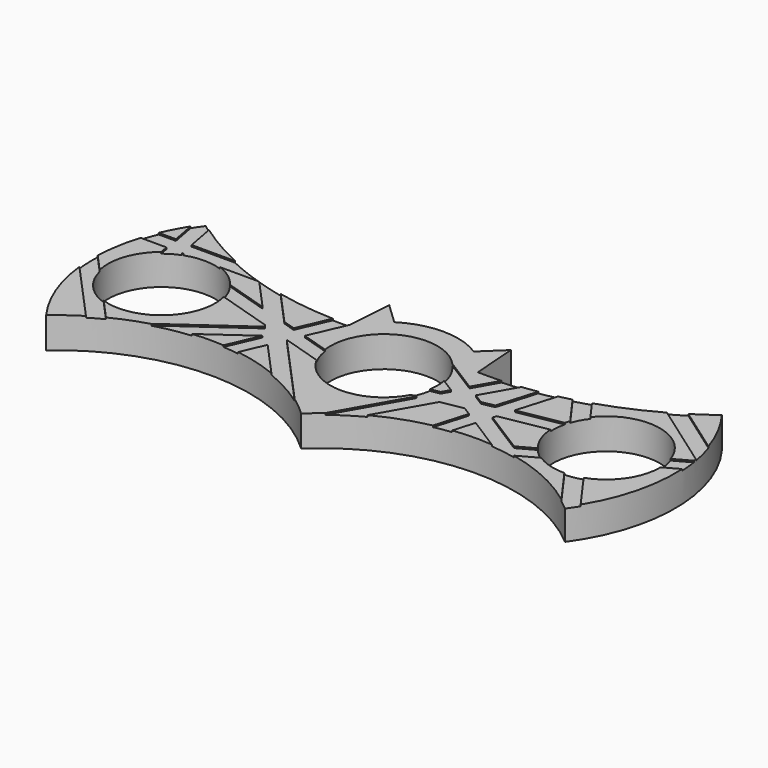
from build123d import *

# Parameters (mm, degrees)
F1_R     = 11
F2_DEPTH = 6.35
F6_DEPTH = 0.3175


with BuildPart() as f2:
    # F1 (on Top) → F2 (new body)
    with BuildSketch(Plane.XY):
        with BuildLine():
            Line((0, -21.2744697928), (-3.9617014267, -14.7160633936))
            ThreePointArc((-3.9617014267, -14.7160633936), (-14.0916920779, -5.8036035686), (-13.1763023875, 7.6578492669))
            ThreePointArc((-13.1763023875, 7.6578492669), (-34.2159424621, 10.6798365178), (-53.0567593104, 20.5196780766))
            ThreePointArc((-53.0567593104, 20.5196780766), (-59.8561977211, 0.2263484753), (-53.3247157398, -20.1548029185))
            ThreePointArc((-53.3247157398, -20.1548029185), (-26.446732511, -10.4453667792), (0, -21.2744697928))
        make_face()
        with Locations((-45.72, 0)):
            Circle(F1_R, mode=Mode.SUBTRACT)
        with BuildLine():
            ThreePointArc((-13.1763023875, 7.6578492669), (-10.9837744966, 10.5647668127), (-8.1642887679, 12.8686436315))
            Line((-8.1642887679, 12.8686436315), (-12.5048465535, 16.9855731691))
            Line((-12.5048465535, 16.9855731691), (-13.1763023875, 7.6578492669))
        make_face()
        with BuildLine():
            ThreePointArc((8.1642887679, 12.8686436315), (10.9837744966, 10.5647668127), (13.1763023875, 7.6578492669))
            Line((13.1763023875, 7.6578492669), (12.5048465535, 16.9855731691))
            Line((12.5048465535, 16.9855731691), (8.1642887679, 12.8686436315))
        make_face()
        with BuildLine():
            Line((0, -21.2744697928), (3.9617014267, -14.7160633936))
            ThreePointArc((3.9617014267, -14.7160633936), (0, -15.24), (-3.9617014267, -14.7160633936))
            Line((-3.9617014267, -14.7160633936), (0, -21.2744697928))
        make_face()
        with BuildLine():
            ThreePointArc((3.9617014267, -14.7160633936), (12.0961549623, -9.2704172036), (15.24, 0))
            ThreePointArc((15.24, 0), (14.7150339515, 3.9655233964), (13.1763023875, 7.6578492669))
            ThreePointArc((13.1763023875, 7.6578492669), (10.9837744966, 10.5647668127), (8.1642887679, 12.8686436315))
            ThreePointArc((8.1642887679, 12.8686436315), (0, 15.24), (-8.1642887679, 12.8686436315))
            ThreePointArc((-8.1642887679, 12.8686436315), (-10.9837744966, 10.5647668127), (-13.1763023875, 7.6578492669))
            ThreePointArc((-13.1763023875, 7.6578492669), (-14.0916920779, -5.8036035686), (-3.9617014267, -14.7160633936))
            ThreePointArc((-3.9617014267, -14.7160633936), (0, -15.24), (3.9617014267, -14.7160633936))
        make_face()
        Circle(F1_R, mode=Mode.SUBTRACT)
        with BuildLine():
            ThreePointArc((13.1763023875, 7.6578492669), (14.7150339515, 3.9655233964), (15.24, 0))
            ThreePointArc((15.24, 0), (12.0961549623, -9.2704172036), (3.9617014267, -14.7160633936))
            Line((3.9617014267, -14.7160633936), (0, -21.2744697928))
            ThreePointArc((0, -21.2744697928), (26.446732511, -10.4453667792), (53.3247157398, -20.1548029185))
            ThreePointArc((53.3247157398, -20.1548029185), (59.8561977211, 0.2263484753), (53.0567593104, 20.5196780766))
            ThreePointArc((53.0567593104, 20.5196780766), (34.2159424621, 10.6798365178), (13.1763023875, 7.6578492669))
        make_face()
        with Locations((45.72, 0)):
            Circle(F1_R, mode=Mode.SUBTRACT)
    extrude(amount=F2_DEPTH)

    # F4: F2 across plane


with BuildPart() as f2_1:
    add(f2.part)
    add(f2.part.mirror(Plane.XY.offset(3.175)), mode=Mode.INTERSECT)

    # F5 (on face) → F6 (cut)
    with BuildSketch(Plane.XY.offset(6.35)):
        with BuildLine():
            Line((-33.0867251205, 10.3273102228), (-33.8965651377, 10.3273102228))
            Line((-33.8965651377, 10.3273102228), (-27.9672857299, 3.7826160877))
            Line((-27.9672857299, 3.7826160877), (-36.8817018288, 6.5486246982))
            ThreePointArc((-36.8817018288, 6.5486246982), (-35.7709952356, 4.6922600309), (-35.0450733013, 2.6544189528))
            Line((-35.0450733013, 2.6544189528), (-23.777877053, -0.8416217854))
            Line((-23.777877053, -0.8416217854), (-23.3603945078, -1.3024358872))
            Line((-23.3603945078, -1.3024358872), (-38.4050425364, -12.0245541076))
            ThreePointArc((-38.4050425364, -12.0245541076), (-34.7082419636, -11.1365012415), (-30.9435157655, -10.6056443669))
            Line((-30.9435157655, -10.6056443669), (-21.7343333799, -4.0423839925))
            Line((-21.7343333799, -4.0423839925), (-24.5594222217, -10.5298927816))
            ThreePointArc((-24.5594222217, -10.5298927816), (-22.9037940861, -10.6783462725), (-21.2558190336, -10.8958806112))
            Line((-21.2558190336, -10.8958806112), (-19.1175726849, -5.9856307902))
            Line((-19.1175726849, -5.9856307902), (-12.5048465535, -13.2847082923))
            ThreePointArc((-12.5048465535, -13.2847082923), (-8.0758913439, -15.3833181537), (-3.9388128262, -18.0109385482))
            Line((-3.9388128262, -18.0109385482), (-17.7267967393, -2.7918653278))
            Line((-17.7267967393, -2.7918653278), (-17.8183960606, -2.690758684))
            Line((-17.8183960606, -2.690758684), (-17.6989126602, -2.7278325777))
            Line((-17.6989126602, -2.7278325777), (-9.6856513623, -5.2142264707))
            ThreePointArc((-9.6856513623, -5.2142264707), (-10.4553816006, -3.4183322814), (-10.89522981, -1.5145848898))
            Line((-10.89522981, -1.5145848898), (-16.4235996876, 0.2007847445))
            Line((-16.4235996876, 0.2007847445), (-13.1763023875, 7.6578492669))
            ThreePointArc((-13.1763023875, 7.6578492669), (-14.9072183672, 7.6354518608), (-16.6380970373, 7.6605676364))
            Line((-16.6380970373, 7.6605676364), (-19.4743635012, 1.147390656))
            Line((-19.4743635012, 1.147390656), (-22.0078047375, 1.933479189))
            Line((-22.0078047375, 1.933479189), (-28.5329704562, 9.1359081644))
            ThreePointArc((-28.5329704562, 9.1359081644), (-30.8209665406, 9.6891113065), (-33.0867251205, 10.3273102228))
        make_face()
        Polygon((-21.2140333894, -3.6715731901), (-21.7343333799, -4.0423839925), (-21.4563736727, -3.4040798031), align=None, mode=Mode.SUBTRACT)
        with BuildLine():
            Line((15.2562559493, 2.8950779034), (8.1607648929, 7.3757654764))
            ThreePointArc((8.1607648929, 7.3757654764), (9.876376857, 4.8432613164), (10.828250906, 1.9362288904))
            Line((10.828250906, 1.9362288904), (13.6808634902, 0.1348502888))
            Line((13.6808634902, 0.1348502888), (12.7943901494, -1.4183297972))
            Line((12.7943901494, -1.4183297972), (10.8561561819, -1.7730969953))
            ThreePointArc((10.8561561819, -1.7730969953), (10.413844837, -3.5428569984), (9.6851364245, -5.2151828768))
            Line((9.6851364245, -5.2151828768), (10.737259112, -5.0226062199))
            Line((10.737259112, -5.0226062199), (2.8625832994, -18.8197381724))
            ThreePointArc((2.8625832994, -18.8197381724), (5.6796409679, -16.8174500762), (8.659958175, -15.0673983988))
            Line((8.659958175, -15.0673983988), (14.8194526711, -4.2754165641))
            Line((14.8194526711, -4.2754165641), (19.3512821981, -3.4459271988))
            Line((19.3512821981, -3.4459271988), (21.1131281148, -4.5585043329))
            Line((21.1131281148, -4.5585043329), (23.9023253439, -6.3198371658))
            Line((23.9023253439, -6.3198371658), (30.6476267102, -10.5793856266))
            ThreePointArc((30.6476267102, -10.5793856266), (33.239021799, -10.8855505762), (35.8047499487, -11.3610550922))
            Line((35.8047499487, -11.3610550922), (36.8868348984, -10.7642820371))
            Line((36.8868348984, -10.7642820371), (39.7052411081, -9.2099226638))
            ThreePointArc((39.7052411081, -9.2099226638), (38.3685492146, -8.182675073), (37.2045242378, -6.9632372172))
            Line((37.2045242378, -6.9632372172), (33.8218485778, -8.8287928639))
            Line((33.8218485778, -8.8287928639), (24.8407004508, -3.1573434203))
            Line((24.8407004508, -3.1573434203), (25.065409153, -2.4000344721))
            Line((25.065409153, -2.4000344721), (34.7380323974, -0.6295931817))
            ThreePointArc((34.7380323974, -0.6295931817), (34.7677616902, 1.0239511728), (35.0450561709, 2.6543500609))
            Line((35.0450561709, 2.6543500609), (26.0781485443, 1.0130803549))
            Line((26.0781485443, 1.0130803549), (28.4852120842, 9.1253196222))
            ThreePointArc((28.4852120842, 9.1253196222), (26.7341804846, 8.7637670313), (24.9736036439, 8.4519960794))
            Line((24.9736036439, 8.4519960794), (22.5761322902, 0.3720842136))
            Line((22.5761322902, 0.3720842136), (19.9986764969, -0.0996837903))
            Line((19.9986764969, -0.0996837903), (17.9434726534, 1.1981441188))
            Line((17.9434726534, 1.1981441188), (21.8387350818, 8.0229901179))
            ThreePointArc((21.8387350818, 8.0229901179), (19.9250706714, 7.8393377288), (18.0066978386, 7.7140965624))
            Line((18.0066978386, 7.7140965624), (15.2562559493, 2.8950779034))
        make_face()
        with BuildLine():
            ThreePointArc((-53.0567593104, 20.5196780766), (-53.7901878387, 19.495997689), (-54.4856112515, 18.4461285452))
            Line((-54.4856112515, 18.4461285452), (-53.5579545513, 13.5023102228))
            Line((-53.5579545513, 13.5023102228), (-57.0927274917, 13.5023102228))
            ThreePointArc((-57.0927274917, 13.5023102228), (-57.7195853166, 11.9292969924), (-58.2681832984, 10.3273102228))
            Line((-58.2681832984, 10.3273102228), (-52.962198431, 10.3273102228))
            Line((-52.962198431, 10.3273102228), (-52.6302978511, 8.5584919004))
            ThreePointArc((-52.6302978511, 8.5584919004), (-51.238664738, 9.5154789427), (-49.7169340331, 10.2481470684))
            Line((-49.7169340331, 10.2481470684), (-49.7317881854, 10.3273102228))
            Line((-49.7317881854, 10.3273102228), (-49.5076989799, 10.3273102228))
            ThreePointArc((-49.5076989799, 10.3273102228), (-45.72, 11), (-41.9323010201, 10.3273102228))
            Line((-41.9323010201, 10.3273102228), (-33.8965651377, 10.3273102228))
            Line((-33.8965651377, 10.3273102228), (-34.2159424621, 10.6798365178))
            ThreePointArc((-34.2159424621, 10.6798365178), (-37.8617750601, 11.9804673674), (-41.4209505634, 13.5023102228))
            Line((-41.4209505634, 13.5023102228), (-50.3275443057, 13.5023102228))
            Line((-50.3275443057, 13.5023102228), (-51.4179553631, 19.313505424))
            ThreePointArc((-51.4179553631, 19.313505424), (-52.2422221405, 19.9099820336), (-53.0567593104, 20.5196780766))
        make_face()
        with BuildLine():
            Line((-56.4303159965, -2.5078140393), (-59.834220327, 1.2493900283))
            ThreePointArc((-59.834220327, 1.2493900283), (-59.8354822635, -1.214212745), (-59.6602114445, -3.6715731901))
            Line((-59.6602114445, -3.6715731901), (-48.1628733894, -16.3622486943))
            ThreePointArc((-48.1628733894, -16.3622486943), (-46.7598407585, -15.5354203248), (-45.3241222503, -14.7667473894))
            Line((-45.3241222503, -14.7667473894), (-49.2698756194, -10.4114544175))
            ThreePointArc((-49.2698756194, -10.4114544175), (-53.8720027623, -7.3854485959), (-56.4303159965, -2.5078140393))
        make_face()
        with BuildLine():
            ThreePointArc((48.6193464819, 17.4331088222), (47.1398450994, 16.5237414768), (45.6358669143, 15.6554541232))
            Line((45.6358669143, 15.6554541232), (59.3375333115, 5.9517546057))
            ThreePointArc((59.3375333115, 5.9517546057), (58.8302028659, 8.336789193), (58.1549966776, 10.6798365178))
            Line((58.1549966776, 10.6798365178), (48.6193464819, 17.4331088222))
        make_face()
        with BuildLine():
            Line((45.8874761829, -10.9987250047), (51.2736430216, -18.4924738944))
            ThreePointArc((51.2736430216, -18.4924738944), (52.3129823875, -19.3066074996), (53.3247157398, -20.1548029185))
            ThreePointArc((53.3247157398, -20.1548029185), (54.0809297424, -19.0671894684), (54.7946581697, -17.9512350039))
            Line((54.7946581697, -17.9512350039), (49.3544126008, -10.3822466281))
            ThreePointArc((49.3544126008, -10.3822466281), (47.6457728262, -10.8301153744), (45.8874761829, -10.9987250047))
        make_face()
        with BuildLine():
            ThreePointArc((34.2159424621, 10.6798365178), (32.6076224076, 10.1847271174), (30.9866653992, 9.7327037853))
            Line((30.9866653992, 9.7327037853), (35.3482953178, 3.6643883508))
            ThreePointArc((35.3482953178, 3.6643883508), (36.0685366986, 5.2772394433), (37.037645152, 6.7540146796))
            Line((37.037645152, 6.7540146796), (34.2159424621, 10.6798365178))
        make_face()
        with BuildLine():
            Line((21.1131281148, -4.5585043329), (19.1175879927, -11.2838352887))
            ThreePointArc((19.1175879927, -11.2838352887), (20.8518057848, -10.9599591005), (22.5986849132, -10.7133410833))
            Line((22.5986849132, -10.7133410833), (23.9023253439, -6.3198371658))
            Line((23.9023253439, -6.3198371658), (21.1131281148, -4.5585043329))
        make_face()
        with BuildLine():
            Line((59.4453053256, 5.3026194345), (56.1527578647, 3.4867697567))
            ThreePointArc((56.1527578647, 3.4867697567), (56.5630362514, 1.8516384236), (56.7186392424, 0.1730168046))
            Line((56.7186392424, 0.1730168046), (59.8057154927, 1.8755485011))
            ThreePointArc((59.8057154927, 1.8755485011), (59.6685009659, 3.593605098), (59.4453053256, 5.3026194345))
        make_face()
        with BuildLine():
            ThreePointArc((-33.0867251205, 10.3273102228), (-33.6521603479, 10.5009257322), (-34.2159424621, 10.6798365178))
            Line((-34.2159424621, 10.6798365178), (-33.8965651377, 10.3273102228))
            Line((-33.8965651377, 10.3273102228), (-33.0867251205, 10.3273102228))
        make_face()
        Polygon((-21.7343333799, -4.0423839925), (-21.2140333894, -3.6715731901), (-21.4563736727, -3.4040798031), align=None)
        Polygon((-17.6989126602, -2.7278325777), (-17.8183960606, -2.690758684), (-17.7267967393, -2.7918653278), align=None)
    extrude(amount=-F6_DEPTH, mode=Mode.SUBTRACT)


solid = f2_1.part
